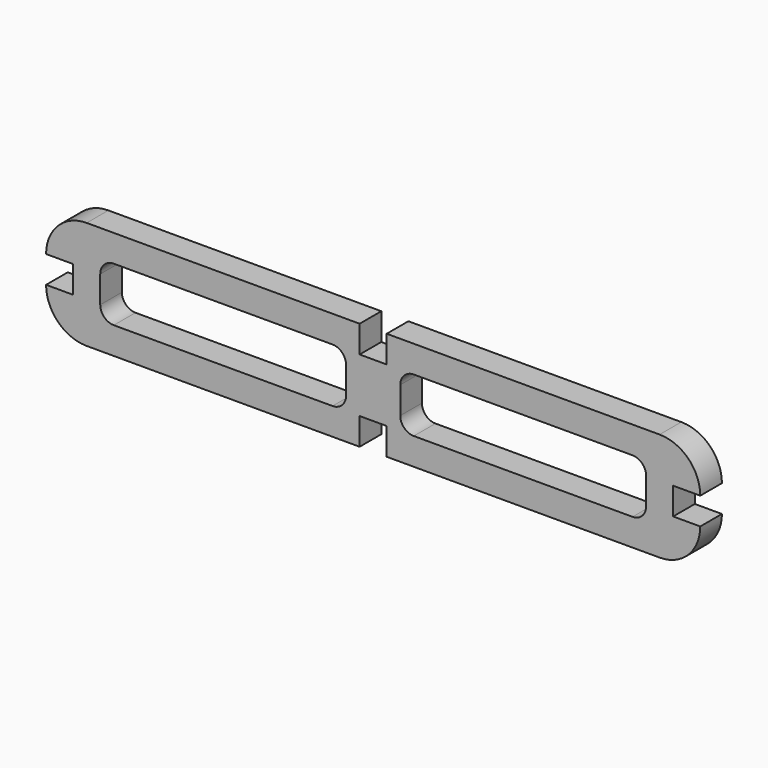
from build123d import *

# Parameters (mm, degrees)
F1_DEPTH = 25.4
F2_W     = 25.4
F2_H     = 25.4
F3_DEPTH = 25.4


with BuildPart() as f1:
    # F0 (on Front) → F1 (new body)
    with BuildSketch(Plane.XZ):
        with BuildLine():
            Line((-306.7558, 12.7), (-281.3558, 12.7))
            Line((-281.3558, 12.7), (-281.3558, -12.7))
            Line((-281.3558, -12.7), (-306.7558, -12.7))
            ThreePointArc((-306.7558, -12.7), (-295.596568, -39.640768), (-268.6558, -50.8))
            Line((-268.6558, -50.8), (0, -50.8))
            Line((0, -50.8), (268.6558, -50.8))
            ThreePointArc((268.6558, -50.8), (295.596568, -39.640768), (306.7558, -12.7))
            Line((306.7558, -12.7), (281.3558, -12.7))
            Line((281.3558, -12.7), (281.3558, 12.7))
            Line((281.3558, 12.7), (306.7558, 12.7))
            ThreePointArc((306.7558, 12.7), (295.596568, 39.640768), (268.6558, 50.8))
            Line((268.6558, 50.8), (0, 50.8))
            Line((0, 50.8), (-268.6558, 50.8))
            ThreePointArc((-268.6558, 50.8), (-295.596568, 39.640768), (-306.7558, 12.7))
        make_face()
        with BuildLine():
            Line((-38.1, -25.4), (-243.2558, -25.4))
            ThreePointArc((-243.2558, -25.4), (-252.236056, -21.680256), (-255.9558, -12.7))
            Line((-255.9558, -12.7), (-255.9558, 12.7))
            ThreePointArc((-255.9558, 12.7), (-252.236056, 21.680256), (-243.2558, 25.4))
            Line((-243.2558, 25.4), (-38.1, 25.4))
            ThreePointArc((-38.1, 25.4), (-29.119744, 21.680256), (-25.4, 12.7))
            Line((-25.4, 12.7), (-25.4, -12.7))
            ThreePointArc((-25.4, -12.7), (-29.119744, -21.680256), (-38.1, -25.4))
        make_face(mode=Mode.SUBTRACT)
        with BuildLine():
            ThreePointArc((255.9558, -12.7), (252.236056, -21.680256), (243.2558, -25.4))
            Line((243.2558, -25.4), (38.1, -25.4))
            ThreePointArc((38.1, -25.4), (29.119744, -21.680256), (25.4, -12.7))
            Line((25.4, -12.7), (25.4, 12.7))
            ThreePointArc((25.4, 12.7), (29.119744, 21.680256), (38.1, 25.4))
            Line((38.1, 25.4), (243.2558, 25.4))
            ThreePointArc((243.2558, 25.4), (252.236056, 21.680256), (255.9558, 12.7))
            Line((255.9558, 12.7), (255.9558, -12.7))
        make_face(mode=Mode.SUBTRACT)
    extrude(amount=F1_DEPTH)

    # F2 (on face) → F3 (cut)
    with BuildSketch(Plane.XZ.offset(25.4)):
        with Locations((0, 38.1)):
            Rectangle(F2_W, F2_H)
        with Locations((0, -38.1)):
            Rectangle(F2_W, F2_H)
    extrude(amount=-F3_DEPTH, mode=Mode.SUBTRACT)


solid = f1.part
